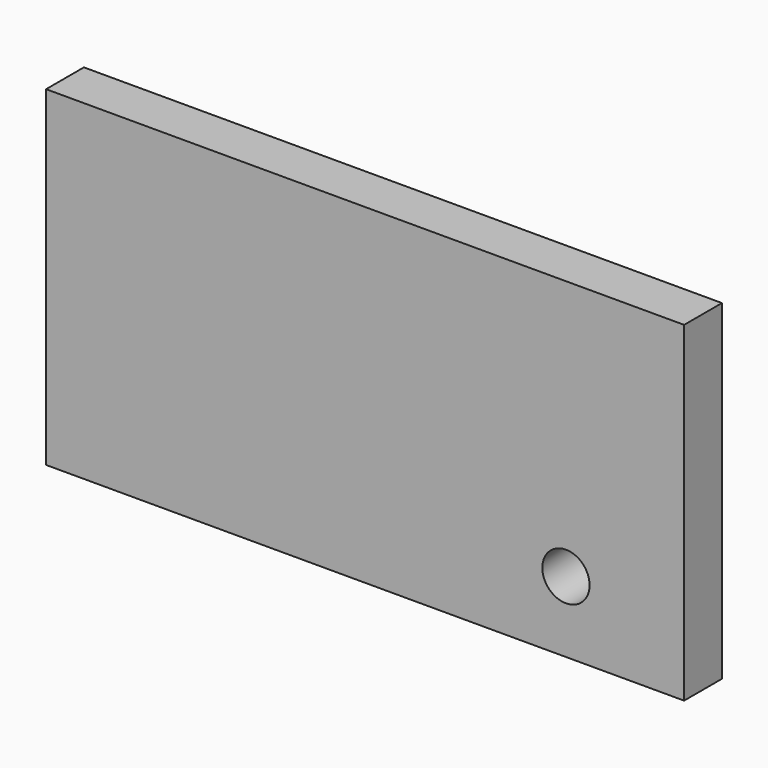
from build123d import *

# Parameters (mm, degrees)
F0_W     = 342.9
F0_H     = 177.8
F1_DEPTH = 25.4
F2_R     = 12.7
F3_DEPTH = 25.4


with BuildPart() as f1:
    # F0 (on Front) → F1 (new body)
    with BuildSketch(Plane.XZ):
        Rectangle(F0_W, F0_H)
    extrude(amount=F1_DEPTH)

    # F2 (on face) → F3 (cut)
    with BuildSketch(Plane.XZ.offset(25.4)):
        with Locations((107.95, -50.8)):
            Circle(F2_R)
    extrude(amount=-F3_DEPTH, mode=Mode.SUBTRACT)


solid = f1.part
